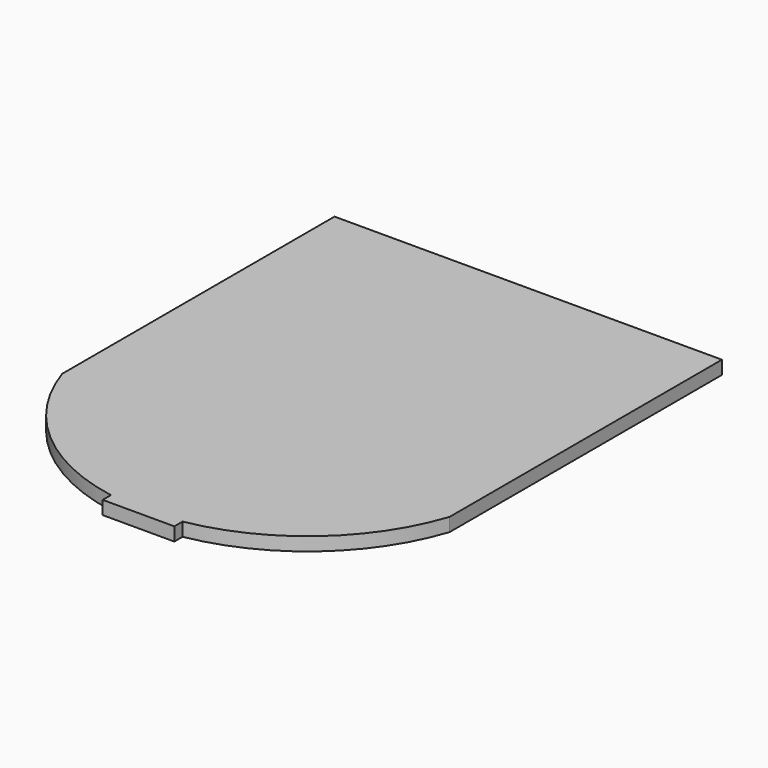
from build123d import *

# Parameters (mm, degrees)
F1_DEPTH = 3


with BuildPart() as f1:
    # F0 (on Top) → F1 (new body)
    with BuildSketch(Plane.XY):
        with BuildLine():
            Line((2.170431, -46.027672), (-41.079569, -46.027672))
            ThreePointArc((-41.079569, -46.027672), (-27.642472, -66.108974), (-5.829569, -76.501831))
            ThreePointArc((-5.829569, -76.501831), (-1.845179, -77.032088), (2.170431, -77.209299))
            Line((2.170431, -77.209299), (2.170431, -46.027672))
        make_face()
        with BuildLine():
            ThreePointArc((10.170431, -76.501831), (31.983335, -66.108974), (45.420431, -46.027672))
            Line((45.420431, -46.027672), (2.170431, -46.027672))
            Line((2.170431, -46.027672), (2.170431, -77.209299))
            ThreePointArc((2.170431, -77.209299), (6.186042, -77.032088), (10.170431, -76.501831))
        make_face()
        Polygon((45.420431, 29.972328), (-41.079569, 29.972328), (-41.079569, -46.027672), (2.170431, -46.027672), (45.420431, -46.027672), align=None)
        with BuildLine():
            ThreePointArc((2.170431, -77.209299), (-1.845179, -77.032088), (-5.829569, -76.501831))
            Line((-5.829569, -76.501831), (-5.829569, -78.805961))
            Line((-5.829569, -78.805961), (2.170431, -78.805961))
            Line((2.170431, -78.805961), (10.170431, -78.805961))
            Line((10.170431, -78.805961), (10.170431, -76.501831))
            ThreePointArc((10.170431, -76.501831), (6.186042, -77.032088), (2.170431, -77.209299))
        make_face()
    extrude(amount=F1_DEPTH)


solid = f1.part
